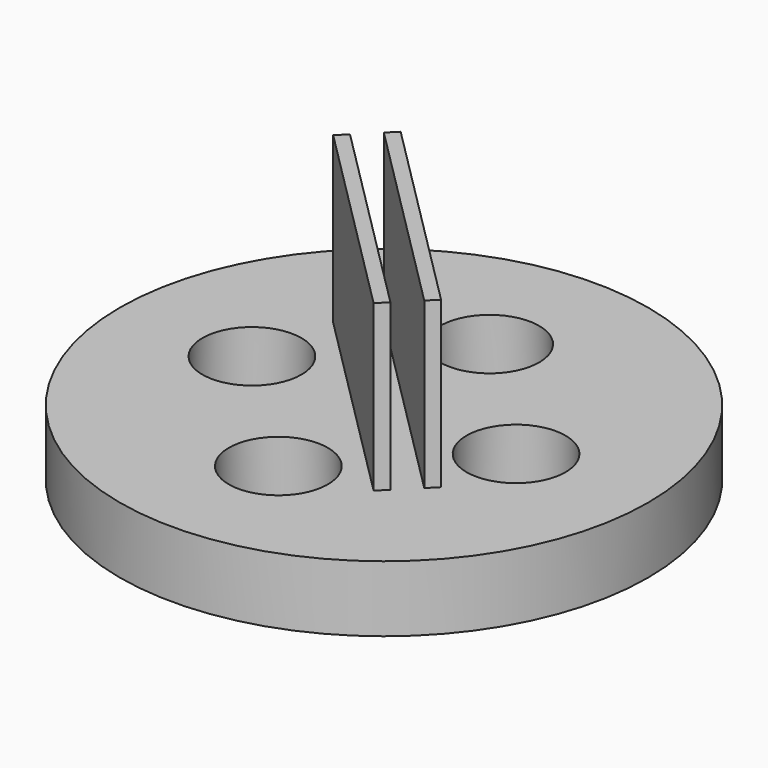
from build123d import *

# Parameters (mm, degrees)
F0_R     = 101.6
F0_R_2   = 19.05
F1_DEPTH = 25.4
F2_R     = 19.05
F3_DEPTH = 5.08
F5_DEPTH = 63.5


with BuildPart() as f1:
    # F0 (on Top) → F1 (new body)
    with BuildSketch(Plane.XY):
        Circle(F0_R)
        with BuildLine():
            ThreePointArc((19.05, -50.8), (-13.4703841816, -64.2703841816), (0, -31.75))
            ThreePointArc((0, -31.75), (13.4703841816, -37.3296158184), (19.05, -50.8))
        make_face(mode=Mode.SUBTRACT)
        with Locations((-50.8, 0)):
            Circle(F0_R_2, mode=Mode.SUBTRACT)
        with BuildLine():
            ThreePointArc((69.85, 0), (50.8, -19.05), (31.75, 0))
            ThreePointArc((31.75, 0), (50.8, 19.05), (69.85, 0))
        make_face(mode=Mode.SUBTRACT)
        with BuildLine():
            ThreePointArc((19.05, 50.8), (13.4703841816, 37.3296158184), (0, 31.75))
            ThreePointArc((0, 31.75), (-13.4703841816, 64.2703841816), (19.05, 50.8))
        make_face(mode=Mode.SUBTRACT)
    extrude(amount=F1_DEPTH)

    # F2 (on Top) → F3 (join)
    with BuildSketch(Plane.XY):
        with Locations((-50.8, 0)):
            Circle(F2_R)
        with Locations((0, -50.8)):
            Circle(F2_R)
        with Locations((0, 50.8)):
            Circle(F2_R)
        with Locations((50.8, 0)):
            Circle(F2_R)
    extrude(amount=F3_DEPTH)

    # F4 (on face) → F5 (join)
    with BuildSketch(Plane.XY.offset(25.4)):
        Polygon((-45.4118463274, 32.3289220358), (-31.9414621458, 18.8585378542), (32.3289220358, -45.4118463274), (35.9210244843, -41.8197438789), (-41.8197438789, 35.9210244843), align=None)
        Polygon((46.7480724009, -30.9926959623), (-18.5676223436, 34.3229987821), (-30.9926959623, 46.7480724009), (-34.5847984107, 43.1559699525), (43.1559699525, -34.5847984107), align=None)
    extrude(amount=F5_DEPTH)


solid = f1.part
